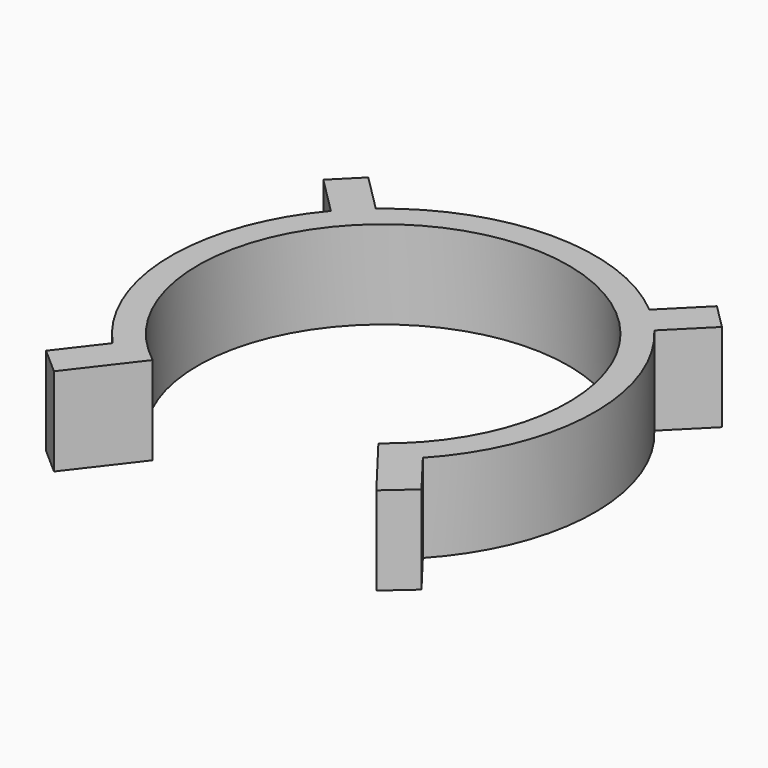
from build123d import *

# Parameters (mm, degrees)
PAD_DEPTH    = 2.5
SKETCH003_R  = 10.5
POCKET_DEPTH = 5


with BuildPart() as part:
    # Sketch → Pad (new body, symmetric)
    with BuildSketch(Plane.XY):
        with BuildLine():
            ThreePointArc((8.786596, -8.172865), (11.99665, -0.28352), (9.162874, 7.74866))
            Line((11.290112, 9.875898), (9.162874, 7.74866))
            Line((9.875898, 11.290112), (11.290112, 9.875898))
            Line((7.74866, 9.162874), (9.875898, 11.290112))
            ThreePointArc((7.74866, 9.162874), (0, 12), (-7.74866, 9.162874))
            Line((-7.74866, 9.162874), (-9.875898, 11.290112))
            Line((-9.875898, 11.290112), (-11.290112, 9.875898))
            Line((-11.290112, 9.875898), (-9.162874, 7.74866))
            ThreePointArc((-9.162874, 7.74866), (-11.99665, -0.28352), (-8.786596, -8.172865))
            Line((-8.786596, -8.172865), (-10.63343, -10.579705))
            Line((-10.63343, -10.579705), (-9.131421, -11.9003))
            Line((0, 0), (-9.131421, -11.9003))
            Line((0, 0), (9.131421, -11.9003))
            Line((9.131421, -11.9003), (10.63343, -10.579705))
            Line((10.63343, -10.579705), (8.786596, -8.172865))
        make_face()
    extrude(amount=PAD_DEPTH, both=True)

    # Sketch003 → Pocket (cut)
    with BuildSketch(Plane.XY.offset(2.5)):
        Circle(SKETCH003_R)
    extrude(amount=-POCKET_DEPTH, mode=Mode.SUBTRACT)


solid = part.part
